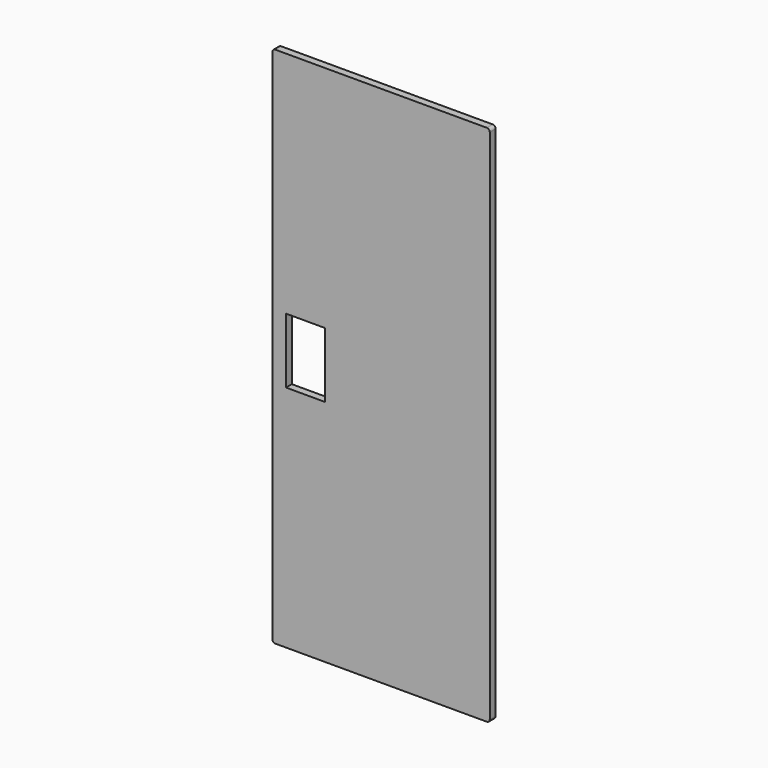
from build123d import *

# Parameters (mm, degrees)
F0_W     = 84.352017
F0_H     = 140.700102
F1_DEPTH = 15.875


with BuildPart() as f1:
    # F0 (on Front) → F1 (new body)
    with BuildSketch(Plane.XZ):
        with BuildLine():
            Line((-228.6, -565.15), (228.6, -565.15))
            ThreePointArc((228.6, -565.15), (233.090128, -563.290128), (234.95, -558.8))
            Line((234.95, -558.8), (234.95, 558.8))
            ThreePointArc((234.95, 558.8), (233.090128, 563.290128), (228.6, 565.15))
            Line((228.6, 565.15), (-228.6, 565.15))
            ThreePointArc((-228.6, 565.15), (-233.090128, 563.290128), (-234.95, 558.8))
            Line((-234.95, 558.8), (-234.95, -558.8))
            ThreePointArc((-234.95, -558.8), (-233.090128, -563.290128), (-228.6, -565.15))
        make_face()
        with Locations((-163.338482, 0)):
            Rectangle(F0_W, F0_H, mode=Mode.SUBTRACT)
    extrude(amount=F1_DEPTH)


solid = f1.part
